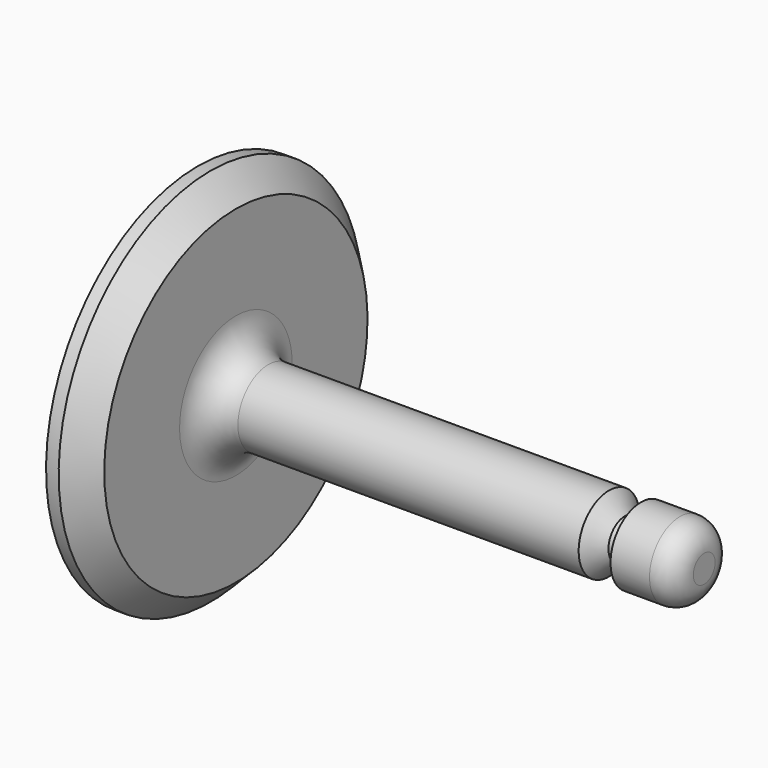
from build123d import *

# Parameters (mm, degrees)
F2_SIZE2 = 2.54
F2_SIZE  = 2.54
F3_R     = 2.4384


with BuildPart() as f1:
    # F0 (on Front) → F1 (revolve)
    with BuildSketch(Plane.XZ):
        with BuildLine():
            Line((-50.8, 0), (0, 0))
            Line((0, 0), (0, 3.81))
            Line((0, 3.81), (-6.35, 3.81))
            Line((-6.35, 3.81), (-6.35, 2.0701))
            Line((-6.35, 2.0701), (-7.9502, 2.0701))
            Line((-7.9502, 2.0701), (-9.5504, 3.81))
            Line((-9.5504, 3.81), (-43.7388, 3.81))
            ThreePointArc((-43.7388, 3.81), (-46.037746, 4.762254), (-46.99, 7.0612))
            Line((-46.99, 7.0612), (-46.99, 19.05))
            Line((-46.99, 19.05), (-50.8, 19.05))
            Line((-50.8, 19.05), (-50.8, 0))
        make_face()
    revolve(axis=Axis((-25.4, 0, 0), (-1, 0, 0)))

    # F2
    f2_edges = [f1.edges().sort_by_distance(p)[0] for p in [
        (-46.99, 0, -19.05),
    ]]
    chamfer(f2_edges, length=F2_SIZE, length2=F2_SIZE2)

    # F3
    f3_edges = [f1.edges().sort_by_distance(p)[0] for p in [
        (0, 0, -3.81),
    ]]
    fillet(f3_edges, radius=F3_R)


solid = f1.part
